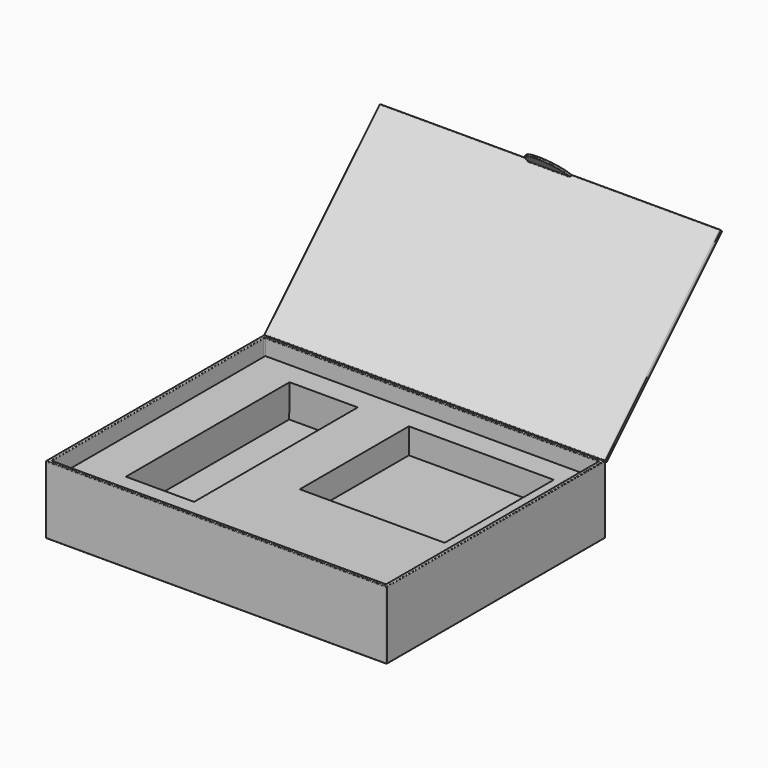
from build123d import *

# Parameters (mm, degrees)
F0_W          = 127
F0_H          = 101.6
F1_DEPTH      = 25.4
F2_T          = -1.27
F4_DEPTH      = 63.5
F4_DEPTH_BACK = 63.5
F5_R          = 0.254
F7_DEPTH      = 0.762
F8_R          = 0.254
F10_W         = 121.92
F10_H         = 96.52
F11_DEPTH     = 19.05
F12_W         = 53.975
F12_H         = 50.8
F13_DEPTH     = 9.525
F14_W         = 25.4
F14_H         = 76.2
F15_DEPTH     = 12.7
F15_TAPER     = -3


with BuildPart() as f1:
    # F0 (on Top) → F1 (new body)
    with BuildSketch(Plane.XY):
        Rectangle(F0_W, F0_H)
    extrude(amount=F1_DEPTH)

    # F2
    f2_openings = [f1.faces().sort_by_distance(p)[0] for p in [
        (0, 0, 25.4),
    ]]
    offset(amount=F2_T, openings=f2_openings)

    # F5
    f5_edges = [f1.edges().sort_by_distance(p)[0] for p in [
        (63.5, -50.8, 12.7),
        (-63.5, -50.8, 12.7),
        (0, -50.8, 0),
        (63.5, 0, 0),
        (0, 50.8, 0),
        (-63.5, 0, 0),
        (0, -49.53, 1.27),
        (62.23, 0, 1.27),
        (0, 49.53, 1.27),
        (-62.23, 0, 1.27),
        (0, -49.53, 25.4),
        (62.23, -49.53, 13.335),
        (-62.23, -49.53, 13.335),
        (0, 49.53, 25.4),
        (-62.23, 49.53, 13.335),
        (62.23, 49.53, 13.335),
        (0, -50.8, 25.4),
        (63.5, 0, 25.4),
        (0, 50.8, 25.4),
        (-63.5, 0, 25.4),
        (-62.23, 0, 25.4),
        (62.23, 0, 25.4),
    ]]
    fillet(f5_edges, radius=F5_R)


with BuildPart() as f4:
    # F3 (on Right) → F4 (new body, two sides)
    with BuildSketch(Plane.YZ) as f4_sk:
        Polygon((104.6815367264, 79.2815367264), (50.8, 25.4), (51.6980256121, 24.5019743879), (105.5795623385, 78.3835111143), align=None)
    extrude(amount=F4_DEPTH)
    extrude(f4_sk.sketch, amount=-F4_DEPTH_BACK)

    # F6 (on face) → F7 (join)
    with BuildSketch(Plane(origin=(0, 91.9815367264, 91.9815367264), x_dir=(-1, 0, 0), z_dir=(0, 0.7071067812, 0.7071067812))):
        with BuildLine():
            Line((-7.9375, -17.9605122421), (7.9375, -17.9605122421))
            ThreePointArc((7.9375, -17.9605122421), (0, -10.0230122421), (-7.9375, -17.9605122421))
        make_face()
    extrude(amount=-F7_DEPTH)

    # F8
    f8_edges = [f4.edges().sort_by_distance(p)[0] for p in [
        (0, 51.698026, 24.501974),
        (63.5, 78.638794, 51.442743),
        (0, 105.579562, 78.383511),
        (-63.5, 78.638794, 51.442743),
        (35.71875, 104.681537, 79.281537),
        (7.9375, 104.412129, 79.012129),
        (0, 104.142721, 78.742721),
        (-7.9375, 104.412129, 79.012129),
        (-35.71875, 104.681537, 79.281537),
        (-63.5, 77.740768, 52.340768),
        (0, 50.8, 25.4),
        (63.5, 77.740768, 52.340768),
        (63.5, 105.13055, 78.832524),
        (0, 99.068877, 84.894197),
        (-63.5, 105.13055, 78.832524),
        (0, 98.530061, 84.355381),
    ]]
    fillet(f8_edges, radius=F8_R)


with BuildPart() as f11:
    # F10 (on face) → F11 (new body)
    with BuildSketch(Plane.XY.offset(1.27)):
        Rectangle(F10_W, F10_H)
    extrude(amount=F11_DEPTH)

    # F12 (on face) → F13 (cut)
    with BuildSketch(Plane.XY.offset(20.32)):
        with Locations((26.2910816818, 14.3898101524)):
            Rectangle(F12_W, F12_H)
    extrude(amount=-F13_DEPTH, mode=Mode.SUBTRACT)

    # F14 (on face) → F15 (cut)
    with BuildSketch(Plane.XY.offset(20.32)):
        with Locations((-32.4464183182, 1.6898101524)):
            Rectangle(F14_W, F14_H)
    extrude(amount=-F15_DEPTH, taper=F15_TAPER, mode=Mode.SUBTRACT)


solid = Compound([f1.part, f4.part, f11.part])
